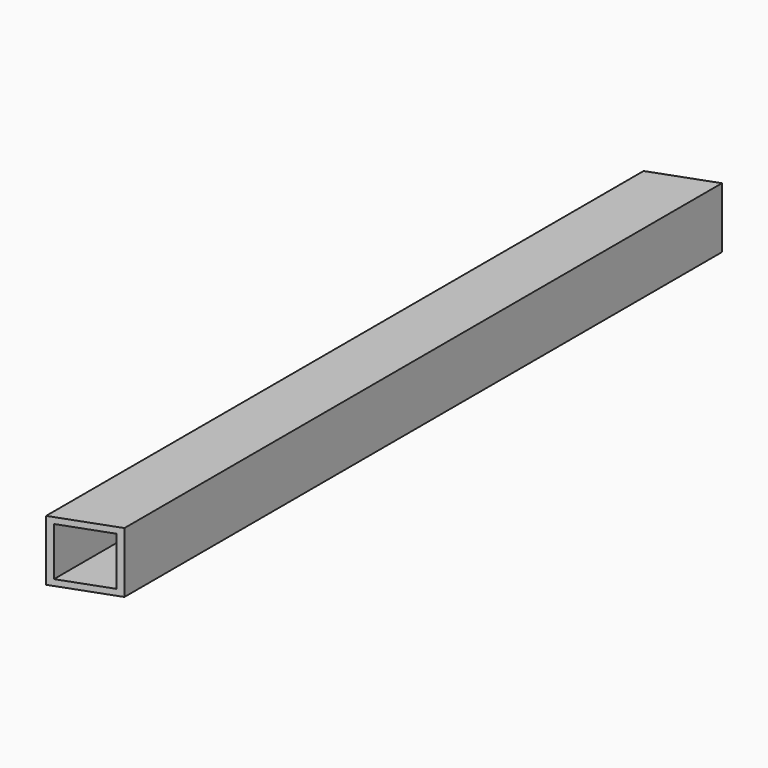
from build123d import *

# Parameters (mm, degrees)
F0_W     = 30
F0_H     = 30
F0_W_2   = 24
F0_H_2   = 24
F1_DEPTH = 500
F3_DEPTH = 30.001


with BuildPart() as f1:
    # F0 (on Front) → F1 (new body)
    with BuildSketch(Plane.XZ):
        Rectangle(F0_W, F0_H)
        Rectangle(F0_W_2, F0_H_2, mode=Mode.SUBTRACT)
    extrude(amount=F1_DEPTH)

    # F2 (on face) → F3 (cut, through all)
    with BuildSketch(Plane(origin=(0, 0, -15), x_dir=(1, 0, 0), z_dir=(0, 0, -1))):
        Polygon((-15, 380.188794), (15, 369.269687), (15, 500), (-15, 500), align=None)
        Polygon((-15, 0), (15, 0), (-15, 10.919107), align=None)
    extrude(amount=-F3_DEPTH, mode=Mode.SUBTRACT)


solid = f1.part
